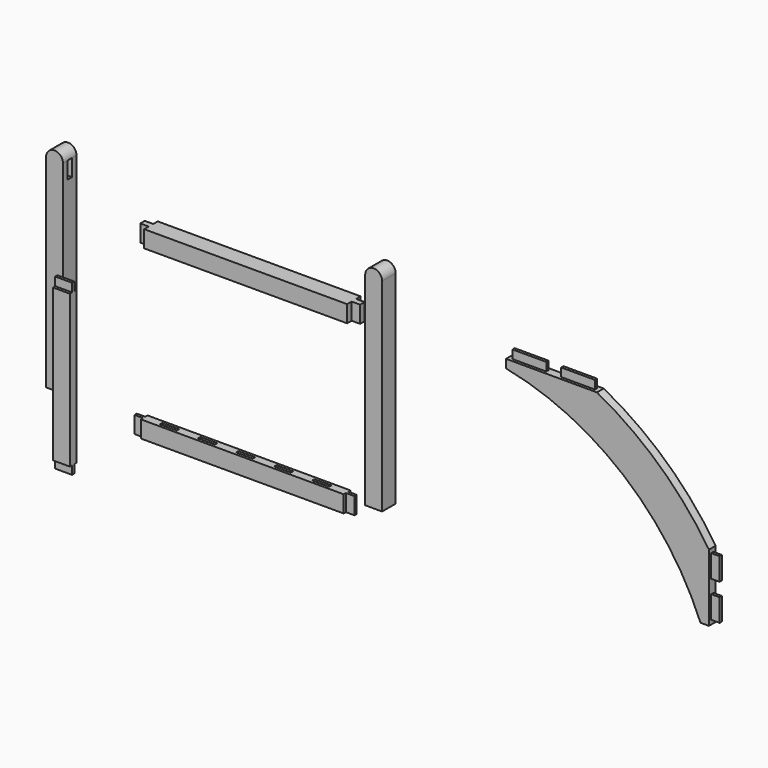
from build123d import *

# Parameters (mm, degrees)
F1_DEPTH  = 3
F2_W      = 1
F2_H      = 3
F3_DEPTH  = 1.5
F4_W      = 0.5
F4_H      = 3
F5_DEPTH  = 1.5
F6_W      = 1.5
F6_H      = 3
F7_DEPTH  = 36
F8_W      = 0.5
F8_H      = 3
F9_DEPTH  = 1.5
F10_W     = 0.5
F10_H     = 3
F11_DEPTH = 1.5
F12_W     = 3
F12_H     = 0.5
F13_DEPTH = 1.5
F14_W     = 3
F14_H     = 3
F15_DEPTH = 36
F16_W     = 1
F16_H     = 3
F17_DEPTH = 1.5
F18_W     = 1
F18_H     = 3
F19_DEPTH = 1.5
F20_W     = 3
F20_H     = 0.5
F21_DEPTH = 1.5
F23_DEPTH = 3
F24_W     = 1
F24_H     = 3
F25_DEPTH = 1.5
F26_W     = 0.5
F26_H     = 3
F27_DEPTH = 1.5
F28_W     = 3
F28_H     = 1.5
F29_DEPTH = 27
F30_W     = 3
F30_H     = 0.5
F31_DEPTH = 1.5
F32_W     = 3
F32_H     = 0.5
F33_DEPTH = 1.5
F35_DEPTH = 1.5
F36_W     = 6
F36_H     = 0.5
F37_DEPTH = 1.5
F38_W     = 0.5
F38_H     = 4
F39_DEPTH = 1.5
F40_W     = 0.5
F40_H     = 4
F41_DEPTH = 1.5
F42_W     = 6
F42_H     = 0.5
F43_DEPTH = 1.5


with BuildPart() as f1:
    # F0 (on Front) → F1 (new body)
    with BuildSketch(Plane.XZ):
        with BuildLine():
            Line((-3, 0), (0, 0))
            Line((0, 0), (0, 36))
            ThreePointArc((0, 36), (-1.5, 37.5), (-3, 36))
            Line((-3, 36), (-3, 0))
        make_face()
        with BuildLine():
            Line((-3, 0), (0, 0))
            Line((0, 0), (0, 36))
            ThreePointArc((0, 36), (-1.5, 37.5), (-3, 36))
            Line((-3, 36), (-3, 0))
        make_face()
    extrude(amount=F1_DEPTH)

    # F2 (on face) → F3 (cut)
    with BuildSketch(Plane(origin=(-3, 0, 0), x_dir=(0, -1, 0), z_dir=(-1, 0, 0))):
        with Locations((1.5, 34.5)):
            Rectangle(F2_W, F2_H)
    extrude(amount=-F3_DEPTH, mode=Mode.SUBTRACT)

    # F4 (on face) → F5 (cut)
    with BuildSketch(Plane(origin=(-3, 0, 0), x_dir=(0, -1, 0), z_dir=(-1, 0, 0))):
        with Locations((0.75, 4.5)):
            Rectangle(F4_W, F4_H)
    extrude(amount=-F5_DEPTH, mode=Mode.SUBTRACT)

    # F40 (on face) → F41 (cut)
    with BuildSketch(Plane(origin=(-3, 0, 0), x_dir=(0, -1, 0), z_dir=(-1, 0, 0))):
        with Locations((2.25, 5.75)):
            Rectangle(F40_W, F40_H)
        with Locations((2.25, 10.661251)):
            Rectangle(F40_W, F40_H)
    extrude(amount=-F41_DEPTH, mode=Mode.SUBTRACT)


with BuildPart() as f7:
    # F6 (on Right) → F7 (new body)
    with BuildSketch(Plane.YZ):
        with Locations((-10.767935, 4.65786)):
            Rectangle(F6_W, F6_H)
    extrude(amount=-F7_DEPTH)

    # F8 (on face) → F9 (join)
    with BuildSketch(Plane(origin=(-36, 0, 0), x_dir=(0, -1, 0), z_dir=(-1, 0, 0))):
        with Locations((10.767935, 4.65786)):
            Rectangle(F8_W, F8_H)
    extrude(amount=F9_DEPTH)

    # F10 (on face) → F11 (join)
    with BuildSketch(Plane.YZ):
        with Locations((-10.7675, 4.65786)):
            Rectangle(F10_W, F10_H)
    extrude(amount=F11_DEPTH)

    # F12 (on face) → F13 (cut)
    with BuildSketch(Plane.XY.offset(6.15786)):
        with Locations((-31.5, -10.767935)):
            Rectangle(F12_W, F12_H)
        with Locations((-24.75, -10.767935)):
            Rectangle(F12_W, F12_H)
        with Locations((-18, -10.767935)):
            Rectangle(F12_W, F12_H)
        with Locations((-11.25, -10.767935)):
            Rectangle(F12_W, F12_H)
        with Locations((-4.5, -10.767935)):
            Rectangle(F12_W, F12_H)
    extrude(amount=-F13_DEPTH, mode=Mode.SUBTRACT)


with BuildPart() as f15:
    # F14 (on Right) → F15 (new body)
    with BuildSketch(Plane.YZ):
        with Locations((-9.252247, 34.040392)):
            Rectangle(F14_W, F14_H)
    extrude(amount=-F15_DEPTH)

    # F16 (on face) → F17 (join)
    with BuildSketch(Plane(origin=(-36, 0, 0), x_dir=(0, -1, 0), z_dir=(-1, 0, 0))):
        with Locations((9.252247, 34.040392)):
            Rectangle(F16_W, F16_H)
    extrude(amount=F17_DEPTH)

    # F18 (on face) → F19 (join)
    with BuildSketch(Plane.YZ):
        with Locations((-9.252247, 34.040392)):
            Rectangle(F18_W, F18_H)
    extrude(amount=F19_DEPTH)

    # F20 (on face) → F21 (cut)
    with BuildSketch(Plane(origin=(0, 0, 32.540392), x_dir=(1, 0, 0), z_dir=(0, 0, -1))):
        with Locations((-4.5, 10.002247)):
            Rectangle(F20_W, F20_H)
        with Locations((-11.25, 10.002247)):
            Rectangle(F20_W, F20_H)
        with Locations((-18, 10.002247)):
            Rectangle(F20_W, F20_H)
        with Locations((-24.75, 10.002247)):
            Rectangle(F20_W, F20_H)
        with Locations((-31.5, 10.002247)):
            Rectangle(F20_W, F20_H)
    extrude(amount=-F21_DEPTH, mode=Mode.SUBTRACT)

    # F42 (on face) → F43 (cut)
    with BuildSketch(Plane(origin=(0, 0, 32.540392), x_dir=(1, 0, 0), z_dir=(0, 0, -1))):
        with Locations((-3.75, 8.502247)):
            Rectangle(F42_W, F42_H)
        with Locations((-12.381, 8.502247)):
            Rectangle(F42_W, F42_H)
    extrude(amount=-F43_DEPTH, mode=Mode.SUBTRACT)


with BuildPart() as f23:
    # F22 (on Front) → F23 (new body)
    with BuildSketch(Plane.XZ):
        with BuildLine():
            Line((-59.609044, 36), (-59.609044, 0))
            Line((-59.609044, 0), (-56.609044, 0))
            Line((-56.609044, 0), (-56.609044, 36))
            ThreePointArc((-56.609044, 36), (-58.109044, 37.5), (-59.609044, 36))
        make_face()
    extrude(amount=F23_DEPTH)

    # F24 (on face) → F25 (cut)
    with BuildSketch(Plane.YZ.offset(-56.609044)):
        with Locations((-1.5, 34.5)):
            Rectangle(F24_W, F24_H)
    extrude(amount=-F25_DEPTH, mode=Mode.SUBTRACT)

    # F26 (on face) → F27 (cut)
    with BuildSketch(Plane.YZ.offset(-56.609044)):
        with Locations((-0.75, 4.5)):
            Rectangle(F26_W, F26_H)
    extrude(amount=-F27_DEPTH, mode=Mode.SUBTRACT)


with BuildPart() as f29:
    # F28 (on Top) → F29 (new body)
    with BuildSketch(Plane.XY):
        with Locations((-43.700521, -18.742762)):
            Rectangle(F28_W, F28_H)
    extrude(amount=F29_DEPTH)

    # F30 (on face) → F31 (join)
    with BuildSketch(Plane.XY.offset(27)):
        with Locations((-43.700521, -18.742762)):
            Rectangle(F30_W, F30_H)
    extrude(amount=F31_DEPTH)

    # F32 (on face) → F33 (join)
    with BuildSketch(Plane(origin=(0, 0, 0), x_dir=(1, 0, 0), z_dir=(0, 0, -1))):
        with Locations((-43.700521, 18.742762)):
            Rectangle(F32_W, F32_H)
    extrude(amount=F33_DEPTH)


with BuildPart() as f35:
    # F34 (on Front) → F35 (new body)
    with BuildSketch(Plane.XZ):
        with BuildLine():
            Line((36.908358, 30), (20.777803, 30))
            Line((20.777803, 30), (20.777803, 28.5))
            ThreePointArc((20.777803, 28.5), (41.614981, 18.592373), (55.277803, 0))
            Line((55.277803, 0), (56.777803, 0))
            Line((56.777803, 0), (56.777803, 11.907568))
            ThreePointArc((56.777803, 11.907568), (47.982971, 22.205633), (36.908358, 30))
        make_face()
    extrude(amount=F35_DEPTH)

    # F36 (on face) → F37 (join)
    with BuildSketch(Plane.XY.offset(30)):
        with Locations((24.527803, -0.75)):
            Rectangle(F36_W, F36_H)
        with Locations((33.158358, -0.75)):
            Rectangle(F36_W, F36_H)
    extrude(amount=F37_DEPTH)

    # F38 (on face) → F39 (join)
    with BuildSketch(Plane.YZ.offset(56.777803)):
        with Locations((-0.75, 2.75)):
            Rectangle(F38_W, F38_H)
        with Locations((-0.75, 9.157568)):
            Rectangle(F38_W, F38_H)
    extrude(amount=F39_DEPTH)


solid = Compound([f1.part, f7.part, f15.part, f23.part, f29.part, f35.part])
